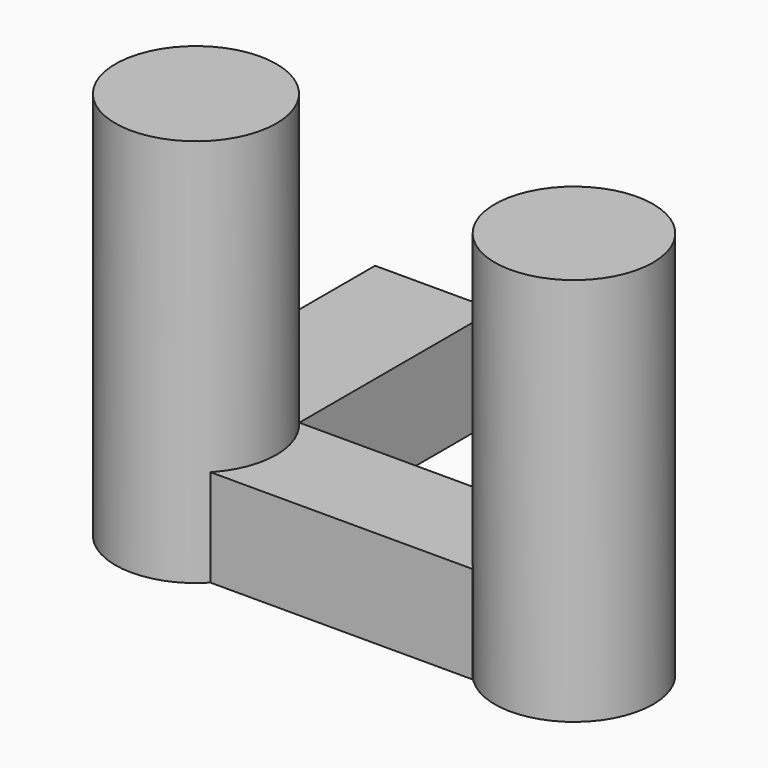
from build123d import *

# Parameters (mm, degrees)
F0_R     = 52.578
F1_DEPTH = 254
F2_R     = 51.686667
F3_DEPTH = 254
F4_W     = 171.340269
F4_H     = 71.002875
F5_DEPTH = 63.5
F6_W     = 78.101962
F6_H     = 159.424633
F7_DEPTH = 63.5


with BuildPart() as f1:
    # F0 (on Top) → F1 (new body)
    with BuildSketch(Plane.XY):
        Circle(F0_R)
    extrude(amount=F1_DEPTH)

    # F6 (on Top) → F7 (join)
    with BuildSketch(Plane.XY):
        with Locations((0.47113, 114.737421)):
            Rectangle(F6_W, F6_H)
    extrude(amount=F7_DEPTH)


with BuildPart() as f3:
    # F2 (on Top) → F3 (new body)
    with BuildSketch(Plane.XY):
        with Locations((246.878713, 0)):
            Circle(F2_R)
    extrude(amount=F3_DEPTH)


with BuildPart() as f5:
    # F4 (on Top) → F5 (new body)
    with BuildSketch(Plane.XY):
        with Locations((123.697097, -0.523413)):
            Rectangle(F4_W, F4_H)
    extrude(amount=F5_DEPTH)


solid = Compound([f1.part, f3.part, f5.part])
